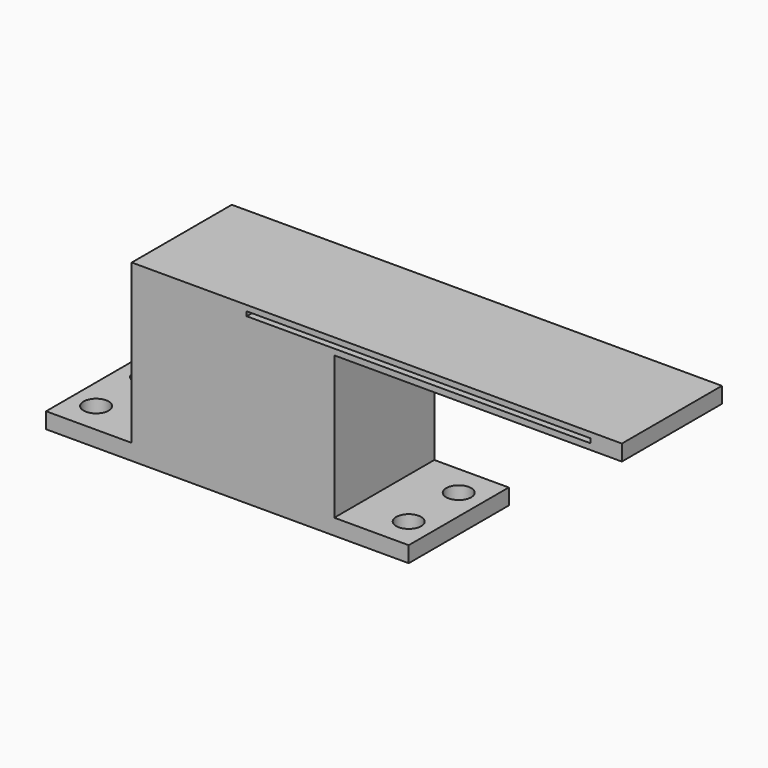
from build123d import *

# Parameters (mm, degrees)
F0_W     = 58
F0_H     = 20
F0_R     = 2
F1_DEPTH = 2.54
F2_W     = 32.392131
F2_H     = 20
F3_DEPTH = 25.4
F4_W     = 20
F4_H     = 2.54
F5_DEPTH = 46
F6_W     = 55
F6_H     = 0.7
F7_DEPTH = 20.001


with BuildPart() as f1:
    # F0 (on Top) → F1 (new body)
    with BuildSketch(Plane.XY):
        Rectangle(F0_W, F0_H)
        with Locations((-25, -5)):
            Circle(F0_R, mode=Mode.SUBTRACT)
        with Locations((25, -5)):
            Circle(F0_R, mode=Mode.SUBTRACT)
        with Locations((-25, 5)):
            Circle(F0_R, mode=Mode.SUBTRACT)
        with Locations((25, 5)):
            Circle(F0_R, mode=Mode.SUBTRACT)
    extrude(amount=F1_DEPTH)

    # F2 (on face) → F3 (join)
    with BuildSketch(Plane.XY.offset(2.54)):
        with Locations((0.897951, 0)):
            Rectangle(F2_W, F2_H)
    extrude(amount=F3_DEPTH)

    # F4 (on face) → F5 (join)
    with BuildSketch(Plane.YZ.offset(17.094016)):
        with Locations((0, 26.67)):
            Rectangle(F4_W, F4_H)
    extrude(amount=F5_DEPTH)

    # F6 (on face) → F7 (cut, through all)
    with BuildSketch(Plane(origin=(0, 10, 0), x_dir=(-1, 0, 0), z_dir=(0, 1, 0))):
        with Locations((-30.594016, 26.701)):
            Rectangle(F6_W, F6_H)
    extrude(amount=-F7_DEPTH, mode=Mode.SUBTRACT)


solid = f1.part
